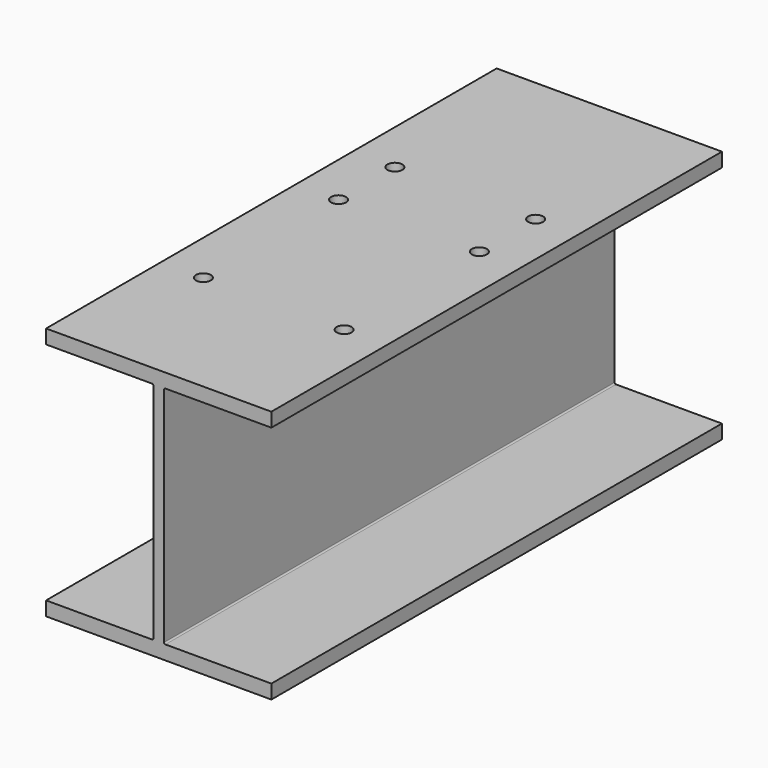
from build123d import *

# Parameters (mm, degrees)
F1_DEPTH = 508
F3_D     = 26.9875
F3_DEPTH = 25.4


with BuildPart() as f1:
    # F0 (on Front) → F1 (new body, symmetric)
    with BuildSketch(Plane.XZ):
        with BuildLine():
            Line((203.2, -228.6), (203.2, -203.2))
            Line((203.2, -203.2), (12.065, -203.2))
            ThreePointArc((12.065, -203.2), (10.268949, -202.456051), (9.525, -200.66))
            Line((9.525, -200.66), (9.525, 200.66))
            ThreePointArc((9.525, 200.66), (10.268949, 202.456051), (12.065, 203.2))
            Line((12.065, 203.2), (203.2, 203.2))
            Line((203.2, 203.2), (203.2, 228.6))
            Line((203.2, 228.6), (-203.2, 228.6))
            Line((-203.2, 228.6), (-203.2, 203.2))
            Line((-203.2, 203.2), (-12.065, 203.2))
            ThreePointArc((-12.065, 203.2), (-10.268949, 202.456051), (-9.525, 200.66))
            Line((-9.525, 200.66), (-9.525, -200.66))
            ThreePointArc((-9.525, -200.66), (-10.268949, -202.456051), (-12.065, -203.2))
            Line((-12.065, -203.2), (-203.2, -203.2))
            Line((-203.2, -203.2), (-203.2, -228.6))
            Line((-203.2, -228.6), (203.2, -228.6))
        make_face()
    extrude(amount=F1_DEPTH, both=True)

    # F3
    with Locations(Plane.XY.offset(228.6)):
        with Locations((-127, 183.212104), (-127, 56.212104), (-127, -248.587896), (127, -248.587896), (127, 56.212104), (127, 183.212104)):
            Hole(F3_D / 2, depth=F3_DEPTH)


solid = f1.part
